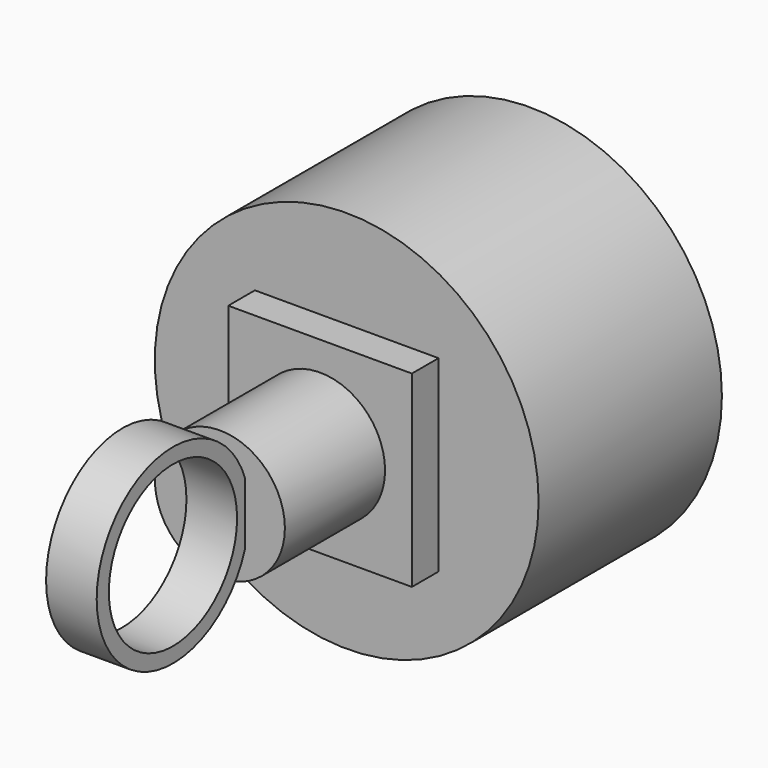
from build123d import *

# Parameters (mm, degrees)
F0_R     = 144.070975
F1_DEPTH = 172
F2_W     = 137.853176
F2_H     = 141.037912
F3_DEPTH = 25
F4_R     = 48.783295
F5_DEPTH = 94
F6_R     = 71.562045
F6_R_2   = 60.159881
F7_DEPTH = 19


with BuildPart() as f1:
    # F0 (on Front) → F1 (new body)
    with BuildSketch(Plane.XZ):
        Circle(F0_R)
    extrude(amount=F1_DEPTH)

    # F2 (on face) → F3 (join)
    with BuildSketch(Plane.XZ.offset(172)):
        Rectangle(F2_W, F2_H)
    extrude(amount=F3_DEPTH)

    # F4 (on face) → F5 (join)
    with BuildSketch(Plane.XZ.offset(197)):
        Circle(F4_R)
    extrude(amount=F5_DEPTH)

    # F6 (on Right) → F7 (join, symmetric)
    with BuildSketch(Plane.YZ):
        with Locations((-358.792186, 0)):
            Circle(F6_R)
        with Locations((-358.792186, 0)):
            Circle(F6_R_2, mode=Mode.SUBTRACT)
    extrude(amount=F7_DEPTH, both=True)


solid = f1.part
